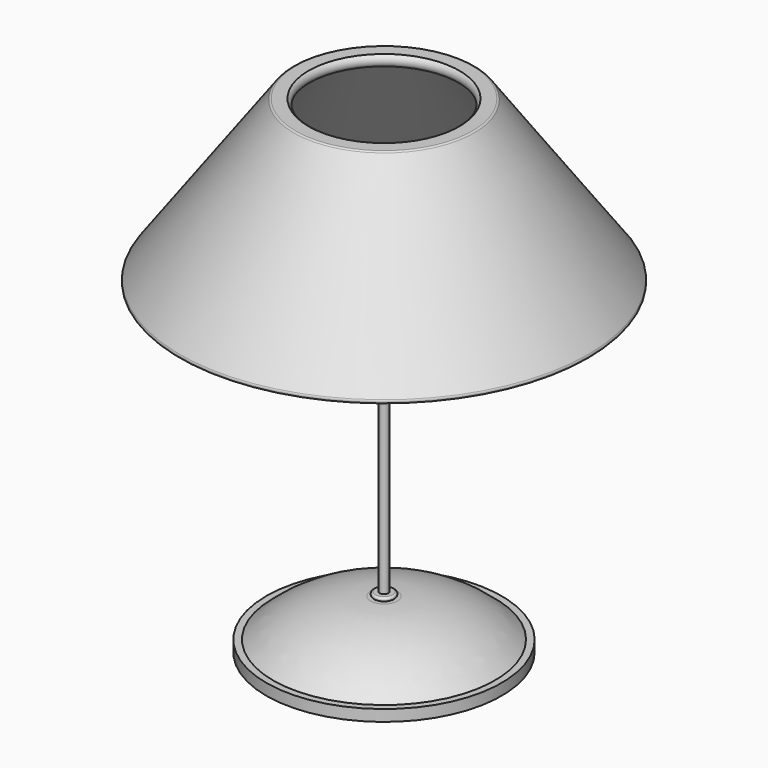
from build123d import *


with BuildPart() as f1:
    # F0 (on Front) → F1 (revolve)
    with BuildSketch(Plane.XZ):
        with BuildLine():
            ThreePointArc((-15.352489, 28.246341), (-13.62427, 28.44809), (-13.972847, 30.152772))
            Line((-13.972847, 30.152772), (-16.33164, 30.152772))
            ThreePointArc((-16.33164, 30.152772), (-16.541537, 30.102276), (-16.7055, 29.961838))
            Line((-16.7055, 29.961838), (-37.858471, 0.732042))
            ThreePointArc((-37.858471, 0.732042), (-37.895603, 0.251591), (-37.484611, 0))
            Line((-37.484611, 0), (-35.793755, 0))
            ThreePointArc((-35.793755, 0), (-34.507022, 0.416387), (-34.513715, 1.768797))
            Line((-34.513715, 1.768797), (-15.352489, 28.246341))
        make_face()
        with BuildLine():
            Line((0, -50.294157), (0, -8.43118))
            Line((0, -8.43118), (-2.924289, -8.43118))
            ThreePointArc((-2.924289, -8.43118), (-5.083002, -7.865537), (-6.686948, -6.313973))
            Line((-6.686948, -6.313973), (-6.686948, 6.094282))
            Line((-6.686948, 6.094282), (-7.355238, 6.094282))
            Line((-7.355238, 6.094282), (-7.355238, -6.354826))
            ThreePointArc((-7.355238, -6.354826), (-5.57923, -8.483328), (-2.924289, -9.280834))
            Line((-2.924289, -9.280834), (-1.713112, -9.280834))
            ThreePointArc((-1.713112, -9.280834), (-2.063826, -9.631548), (-1.713112, -9.982262))
            Line((-1.713112, -9.982262), (-0.788547, -9.982262))
            Line((-0.788547, -9.982262), (-0.788547, -50.294157))
            Line((-0.788547, -50.294157), (0, -50.294157))
        make_face()
        with BuildLine():
            Line((0, -51.020104), (0, -50.294157))
            Line((0, -50.294157), (-0.788547, -50.294157))
            Line((-0.788547, -50.294157), (-1.577094, -50.294157))
            ThreePointArc((-1.577094, -50.294157), (-1.940068, -50.657131), (-1.577094, -51.020104))
            Line((-1.577094, -51.020104), (0, -51.020104))
        make_face()
        with BuildLine():
            Line((0, -51.505268), (0, -51.020104))
            Line((0, -51.020104), (-1.577094, -51.020104))
            Line((-1.577094, -51.020104), (-2.485723, -51.020104))
            ThreePointArc((-2.485723, -51.020104), (-12.184484, -52.847047), (-20.553859, -58.077462))
            Line((-20.553859, -58.077462), (-21.804942, -58.077462))
            Line((-21.804942, -58.077462), (-21.804942, -60.183927))
            Line((-21.804942, -60.183927), (-21.465123, -60.183927))
            Line((-21.465123, -60.183927), (-21.465123, -58.527764))
            Line((-21.465123, -58.527764), (-20.553859, -58.527764))
            ThreePointArc((-20.553859, -58.527764), (-10.97392, -52.976524), (0, -51.505268))
        make_face()
    revolve(axis=Axis((0, 0, -30.091964), (0, 0, -1)))


solid = f1.part
